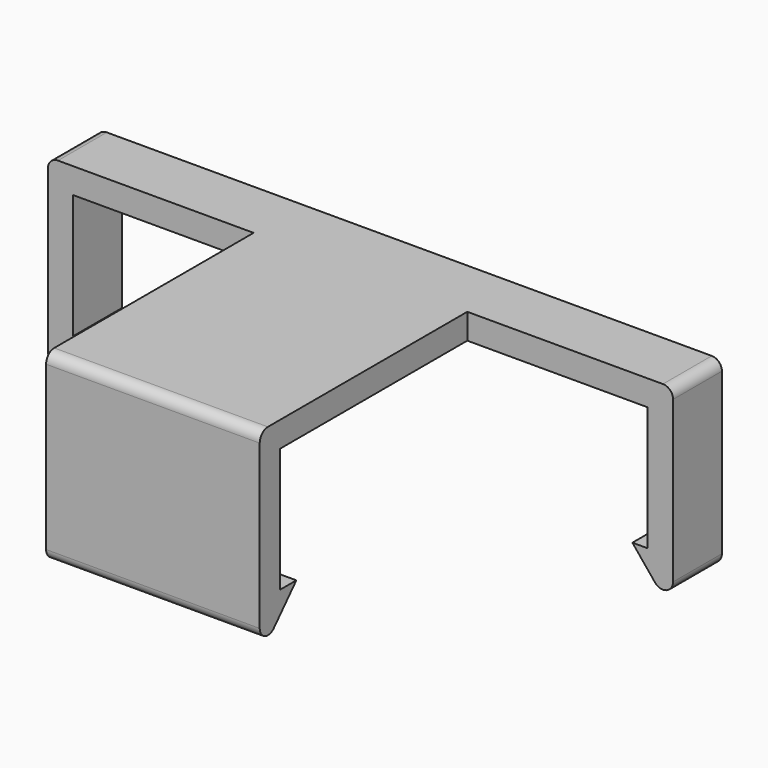
from build123d import *

# Parameters (mm, degrees)
F1_DEPTH = 6
F2_R     = 1
F4_DEPTH = 2.5
F6_DEPTH = 21
F7_R     = 1
F8_R     = 1


with BuildPart() as f1:
    # F0 (on Front) → F1 (new body)
    with BuildSketch(Plane.XZ):
        Polygon((0, 0), (0, -12.2), (-1.5, -12.2), (2.5, -17.1), (2.5, 0), (2.5, 2.5), (0, 2.5), (-16.5, 2.5), (-28.23, 2.5), (-39.96, 2.5), (-56.46, 2.5), (-58.96, 2.5), (-58.96, 0), (-58.96, -17.1), (-54.96, -12.2), (-56.46, -12.2), (-56.46, 0), (-46.36, 0), (-28.23, 0), (-10.1, 0), align=None)
    extrude(amount=F1_DEPTH)

    # F2
    f2_edges = [f1.edges().sort_by_distance(p)[0] for p in [
        (-58.96, -3, -17.1),
        (2.5, -3, -17.1),
        (-58.96, -3, 2.5),
        (2.5, -3, 2.5),
    ]]
    fillet(f2_edges, radius=F2_R)

    # F3 (on face) → F4 (join)
    with BuildSketch(Plane.XY.offset(2.5)):
        Polygon((-17.73, -6), (-38.73, -6), (-38.73, -29), (-28.23, -29), (-17.73, -29), align=None)
    extrude(amount=-F4_DEPTH)

    # F5 (on face) → F6 (join)
    with BuildSketch(Plane(origin=(-38.73, 0, 0), x_dir=(0, -1, 0), z_dir=(-1, 0, 0))):
        Polygon((31.5, 2.5), (29, 2.5), (29, -12.2), (27, -12.2), (31.5, -17.1), align=None)
    extrude(amount=-F6_DEPTH)

    # F7
    f7_edges = [f1.edges().sort_by_distance(p)[0] for p in [
        (-28.23, -31.5, -17.1),
    ]]
    fillet(f7_edges, radius=F7_R)

    # F8
    f8_edges = [f1.edges().sort_by_distance(p)[0] for p in [
        (-28.23, -31.5, 2.5),
    ]]
    fillet(f8_edges, radius=F8_R)


solid = f1.part
